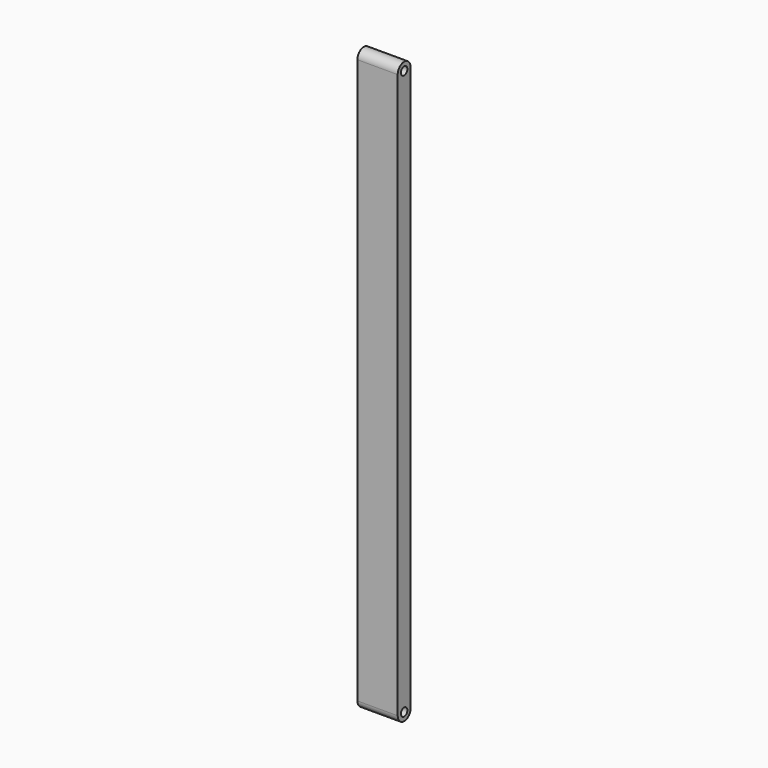
from build123d import *

# Parameters (mm, degrees)
F0_R     = 0.5
F1_DEPTH = 5


with BuildPart() as f1:
    # F0 (on Right) → F1 (new body)
    with BuildSketch(Plane.YZ):
        with BuildLine():
            Line((0, -65.045501), (0, 4.954499))
            ThreePointArc((0, 4.954499), (-1, 5.954499), (-2, 4.954499))
            Line((-2, 4.954499), (-2, -65.045501))
            ThreePointArc((-2, -65.045501), (-1, -66.045501), (0, -65.045501))
        make_face()
        with Locations((-1, -65.045501)):
            Circle(F0_R, mode=Mode.SUBTRACT)
        with Locations((-1, 4.954499)):
            Circle(F0_R, mode=Mode.SUBTRACT)
    extrude(amount=F1_DEPTH)


solid = f1.part
